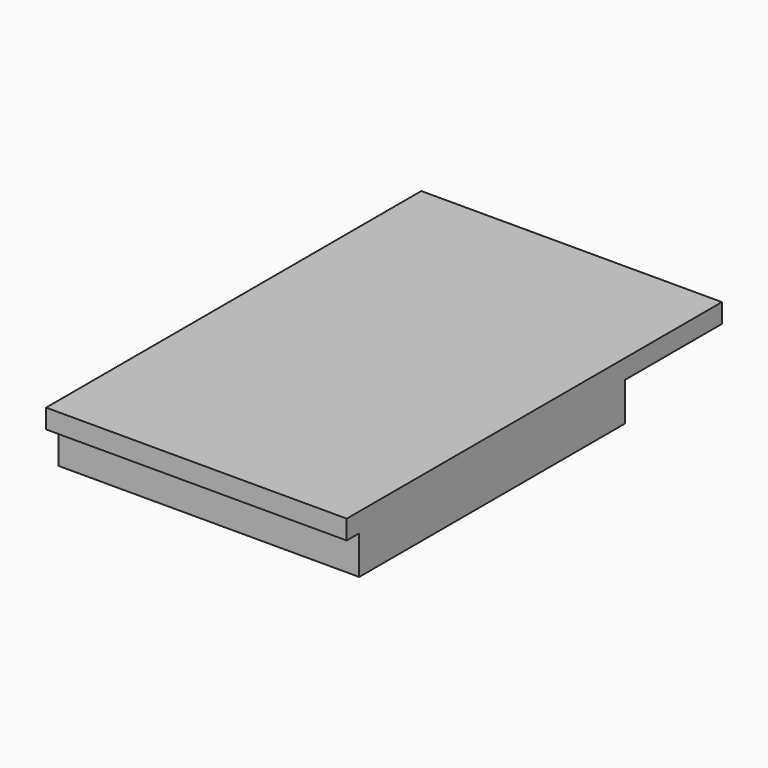
from build123d import *

# Parameters (mm, degrees)
F0_W     = 12.5
F0_H     = 19.5
F2_DEPTH = 0.8
F1_W     = 12.5
F1_H     = 13.8
F3_DEPTH = 1.6


with BuildPart() as f2:
    # F0 (on Top) → F2 (new body)
    with BuildSketch(Plane.XY):
        with Locations((6.25, 9.75)):
            Rectangle(F0_W, F0_H)
    extrude(amount=F2_DEPTH)

    # F1 (on face) → F3 (join)
    with BuildSketch(Plane.XY):
        with Locations((6.25, 7.55)):
            Rectangle(F1_W, F1_H)
    extrude(amount=-F3_DEPTH)


solid = f2.part
